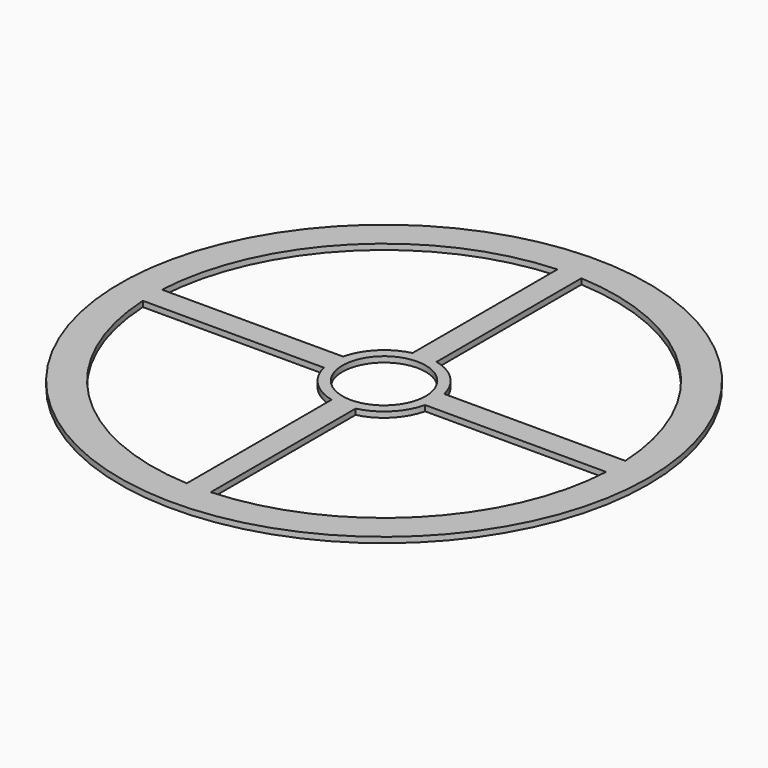
from build123d import *

# Parameters (mm, degrees)
F0_R     = 33
F1_DEPTH = 0.7
F2_R     = 5.2
F3_DEPTH = 0.7
F5_DEPTH = 0.7


with BuildPart() as f1:
    # F0 (on Top) → F1 (new body)
    with BuildSketch(Plane.XY):
        Circle(F0_R)
    extrude(amount=F1_DEPTH)

    # F2 (on face) → F3 (cut, through all)
    with BuildSketch(Plane.XY.offset(0.7)):
        Circle(F2_R)
    extrude(amount=-F3_DEPTH, mode=Mode.SUBTRACT)

    # F4 (on face) → F5 (cut, through all)
    with BuildSketch(Plane.XY.offset(0.7)):
        with BuildLine():
            Line((-1.5, 6.324555), (-1.5, 28.961181))
            ThreePointArc((-1.5, 28.961181), (-20.506097, 20.506097), (-28.961181, 1.5))
            Line((-28.961181, 1.5), (-6.324555, 1.5))
            ThreePointArc((-6.324555, 1.5), (-4.596194, 4.596194), (-1.5, 6.324555))
        make_face()
        with BuildLine():
            Line((6.324555, 1.5), (28.961181, 1.5))
            ThreePointArc((28.961181, 1.5), (20.506097, 20.506097), (1.5, 28.961181))
            Line((1.5, 28.961181), (1.5, 6.324555))
            ThreePointArc((1.5, 6.324555), (4.596194, 4.596194), (6.324555, 1.5))
        make_face()
        with BuildLine():
            ThreePointArc((1.5, -28.961181), (20.506097, -20.506097), (28.961181, -1.5))
            Line((28.961181, -1.5), (6.324555, -1.5))
            ThreePointArc((6.324555, -1.5), (4.596194, -4.596194), (1.5, -6.324555))
            Line((1.5, -6.324555), (1.5, -28.961181))
        make_face()
        with BuildLine():
            ThreePointArc((-28.961181, -1.5), (-20.506097, -20.506097), (-1.5, -28.961181))
            Line((-1.5, -28.961181), (-1.5, -6.324555))
            ThreePointArc((-1.5, -6.324555), (-4.596194, -4.596194), (-6.324555, -1.5))
            Line((-6.324555, -1.5), (-28.961181, -1.5))
        make_face()
    extrude(amount=-F5_DEPTH, mode=Mode.SUBTRACT)


solid = f1.part
